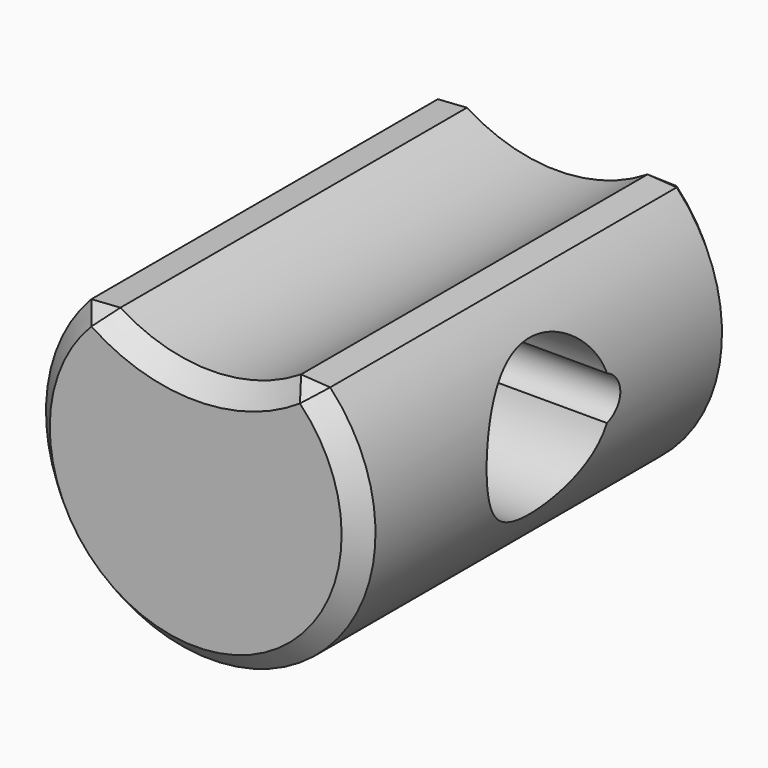
from build123d import *

# Parameters (mm, degrees)
CYLINDER018_R      = 0.5
CYLINDER018_DEPTH  = 10
CYLINDER017_R      = 1.65
CYLINDER017_DEPTH  = 10
CYLINDER016_R      = 3.6
CYLINDER016_DEPTH  = 10
CYLINDER015_R      = 3.5
CYLINDER015_DEPTH  = 10
CHAMFER002007_SIZE = 0.4


with BuildPart() as cylinder011:
    # Cylinder018 → Cylinder018 (new body)
    with BuildSketch(Plane(origin=(19, -46.6, 6), x_dir=(0, 0, -1), z_dir=(1, 0, 0))):
        Circle(CYLINDER018_R)
    extrude(amount=CYLINDER018_DEPTH)


with BuildPart() as cylinder010:
    # Cylinder017 → Cylinder017 (new body)
    with BuildSketch(Plane(origin=(19, -48, 6), x_dir=(0, 0, -1), z_dir=(1, 0, 0))):
        Circle(CYLINDER017_R)
    extrude(amount=CYLINDER017_DEPTH)


with BuildPart() as cylinder009:
    # Cylinder016 → Cylinder016 (new body)
    with BuildSketch(Plane(origin=(24, -43, 11.5), x_dir=(1, 0, 0), z_dir=(0, -1, 0))):
        Circle(CYLINDER016_R)
    extrude(amount=CYLINDER016_DEPTH)


with BuildPart() as obj1:
    # Cylinder015 → Cylinder015 (new body)
    with BuildSketch(Plane(origin=(24, -43, 6), x_dir=(1, 0, 0), z_dir=(0, -1, 0))):
        Circle(CYLINDER015_R)
    extrude(amount=CYLINDER015_DEPTH)

    # Cut001012003011002008006006009003002: cut Cylinder009
    add(cylinder009.part, mode=Mode.SUBTRACT)

    # Cut001012003011002008006006009003003: cut Cylinder010
    add(cylinder010.part, mode=Mode.SUBTRACT)

    # Cut001012003011002008006006009003004: cut Cylinder011
    add(cylinder011.part, mode=Mode.SUBTRACT)

    # Chamfer002007
    chamfer002007_edges = [obj1.edges().sort_by_distance(p)[0] for p in [
        (21.755377, -48, 8.685455),
        (22.517803, -53, 2.829339),
        (22.517803, -43, 2.829339),
        (24, -53, 7.9),
        (26.244623, -48, 8.685455),
        (24, -43, 7.9),
        (27.170661, -53, 7.482197),
        (27.170661, -43, 7.482197),
    ]]
    chamfer(chamfer002007_edges, length=CHAMFER002007_SIZE)


solid = obj1.part
